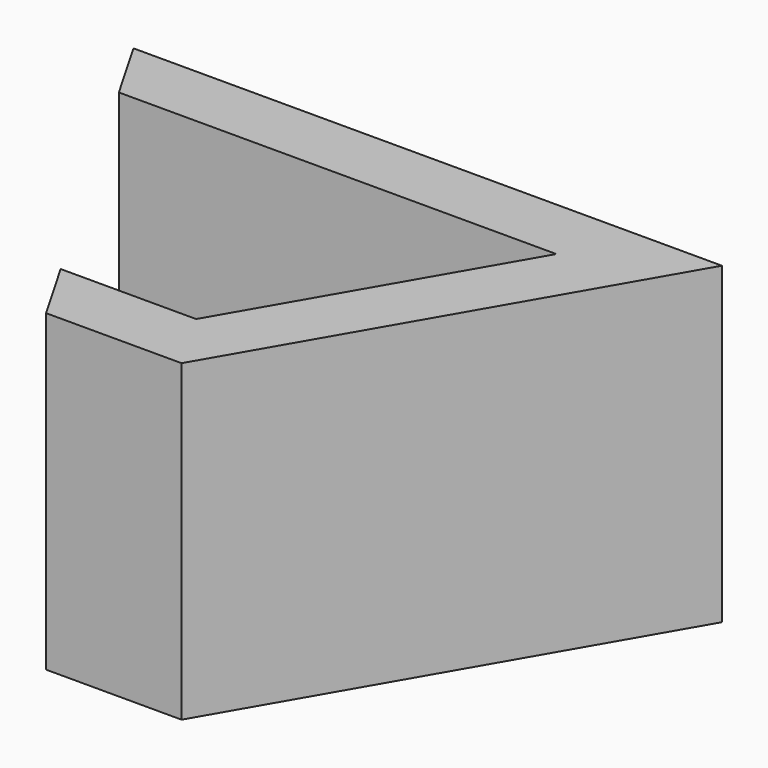
from build123d import *

# Parameters (mm, degrees)
F1_DEPTH      = 57.404
F1_DEPTH_BACK = 64.516
F2_T          = -25.4


with BuildPart() as f1:
    # F0 (on Top) → F1 (new body, two sides)
    with BuildSketch(Plane.XY) as f1_sk:
        Polygon((127, 25.4), (-101.6, 25.4), (-13.6118189755, -127), (39.0118189755, -127), align=None)
    extrude(amount=-F1_DEPTH)
    extrude(f1_sk.sketch, amount=F1_DEPTH_BACK)

    # F2
    f2_openings = [f1.faces().sort_by_distance(p)[0] for p in [
        (12.7, -34.905889, 64.516),
        (12.7, -34.905889, -57.404),
        (-57.605909, -50.8, 3.556),
    ]]
    offset(amount=F2_T, openings=f2_openings)


solid = f1.part
